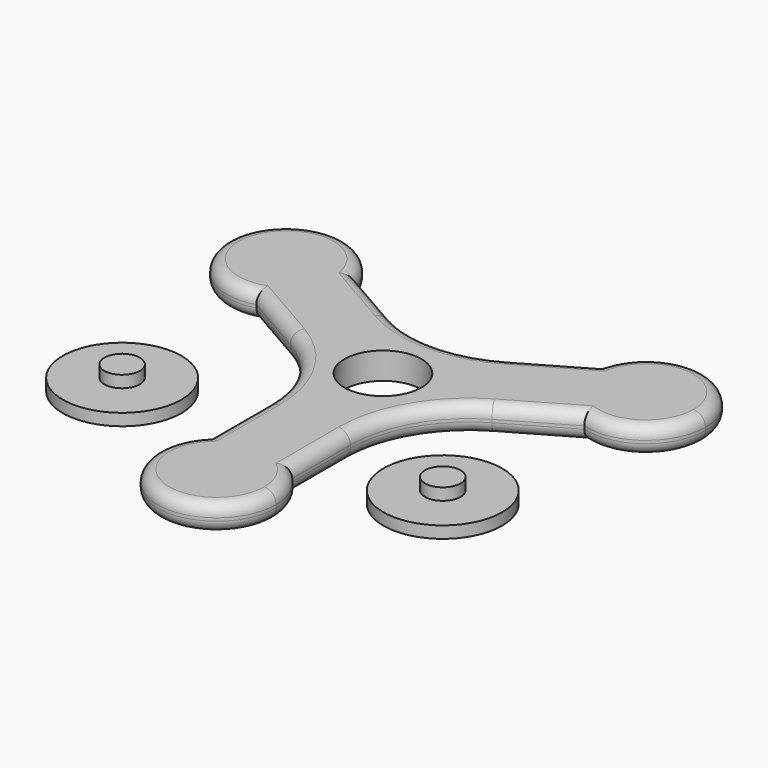
from build123d import *

# Parameters (mm, degrees)
F0_R     = 6.5
F1_DEPTH = 4.5
F2_R     = 2
F3_R     = 2
F0_R_2   = 10
F4_DEPTH = 2
F5_R     = 3
F6_DEPTH = 2
F7_R     = 3
F8_DEPTH = 2


with BuildPart() as f1:
    # F0 (on Top) → F1 (new body)
    with BuildSketch(Plane.XY):
        with BuildLine():
            ThreePointArc((-20.310889, 17.5), (-20.390038, 18.75567), (-20.626231, 19.991464))
            ThreePointArc((-20.626231, 19.991464), (-38.971143, 22.5), (-27.626231, 7.867108))
            ThreePointArc((-27.626231, 7.867108), (-22.347015, 11.452132), (-20.310889, 17.5))
        make_face()
        with BuildLine():
            ThreePointArc((10, -35), (9.219544, -31.127017), (7, -27.858572))
            ThreePointArc((7, -27.858572), (0, -25), (-7, -27.858572))
            ThreePointArc((-7, -27.858572), (-3.872983, -44.219544), (10, -35))
        make_face()
        with BuildLine():
            ThreePointArc((27.626231, 7.867108), (36.358757, 9.536126), (40.310889, 17.5))
            ThreePointArc((40.310889, 17.5), (31.566559, 27.420851), (20.626231, 19.991464))
            ThreePointArc((20.626231, 19.991464), (21.650635, 12.5), (27.626231, 7.867108))
        make_face()
        with BuildLine():
            ThreePointArc((27.626231, 7.867108), (21.650635, 12.5), (20.626231, 19.991464))
            Line((20.626231, 19.991464), (10, 13.856406))
            ThreePointArc((10, 13.856406), (0, 11.176915), (-10, 13.856406))
            Line((-10, 13.856406), (-20.626231, 19.991464))
            ThreePointArc((-20.626231, 19.991464), (-20.390038, 18.75567), (-20.310889, 17.5))
            ThreePointArc((-20.310889, 17.5), (-22.347015, 11.452132), (-27.626231, 7.867108))
            Line((-27.626231, 7.867108), (-17, 1.732051))
            ThreePointArc((-17, 1.732051), (-9.679492, -5.588457), (-7, -15.588457))
            Line((-7, -15.588457), (-7, -27.858572))
            ThreePointArc((-7, -27.858572), (0, -25), (7, -27.858572))
            Line((7, -27.858572), (7, -15.588457))
            ThreePointArc((7, -15.588457), (9.679492, -5.588457), (17, 1.732051))
            Line((17, 1.732051), (27.626231, 7.867108))
        make_face()
        Circle(F0_R, mode=Mode.SUBTRACT)
    extrude(amount=F1_DEPTH)

    # F2
    f2_edges = [f1.edges().sort_by_distance(p)[0] for p in [
        (-3.872983, -44.219544, 4.5),
        (7, -21.723514, 4.5),
        (9.679492, -5.588457, 4.5),
        (22.313115, 4.799579, 4.5),
        (38.971143, 22.5, 4.5),
        (15.313115, 16.923935, 4.5),
        (0, 11.176915, 4.5),
        (-15.313115, 16.923935, 4.5),
        (-38.971143, 22.5, 4.5),
        (-22.313115, 4.799579, 4.5),
        (-9.679492, -5.588457, 4.5),
        (-7, -21.723514, 4.5),
    ]]
    fillet(f2_edges, radius=F2_R)

    # F3
    f3_edges = [f1.edges().sort_by_distance(p)[0] for p in [
        (-38.971143, 22.5, 0),
        (-22.313115, 4.799579, 0),
        (-9.679492, -5.588457, 0),
        (-7, -21.723514, 0),
        (-3.872983, -44.219544, 0),
        (7, -21.723514, 0),
        (9.679492, -5.588457, 0),
        (-15.313115, 16.923935, 0),
        (0, 11.176915, 0),
        (15.313115, 16.923935, 0),
        (22.313115, 4.799579, 0),
        (38.971143, 22.5, 0),
    ]]
    fillet(f3_edges, radius=F3_R)


with BuildPart() as f4:
    # F0 (on Top) → F4 (new body)
    with BuildSketch(Plane.XY):
        with Locations((-29.001273, -18.667545)):
            Circle(F0_R_2)
        with Locations((23.967985, -17.355986)):
            Circle(F0_R_2)
    extrude(amount=F4_DEPTH)

    # F5 (on face) → F6 (join)
    with BuildSketch(Plane.XY.offset(2)):
        with Locations((-29.001273, -18.667545)):
            Circle(F5_R)
    extrude(amount=F6_DEPTH)

    # F7 (on face) → F8 (join)
    with BuildSketch(Plane.XY.offset(2)):
        with Locations((23.967985, -17.355986)):
            Circle(F7_R)
    extrude(amount=F8_DEPTH)


solid = Compound([f1.part, f4.part])
